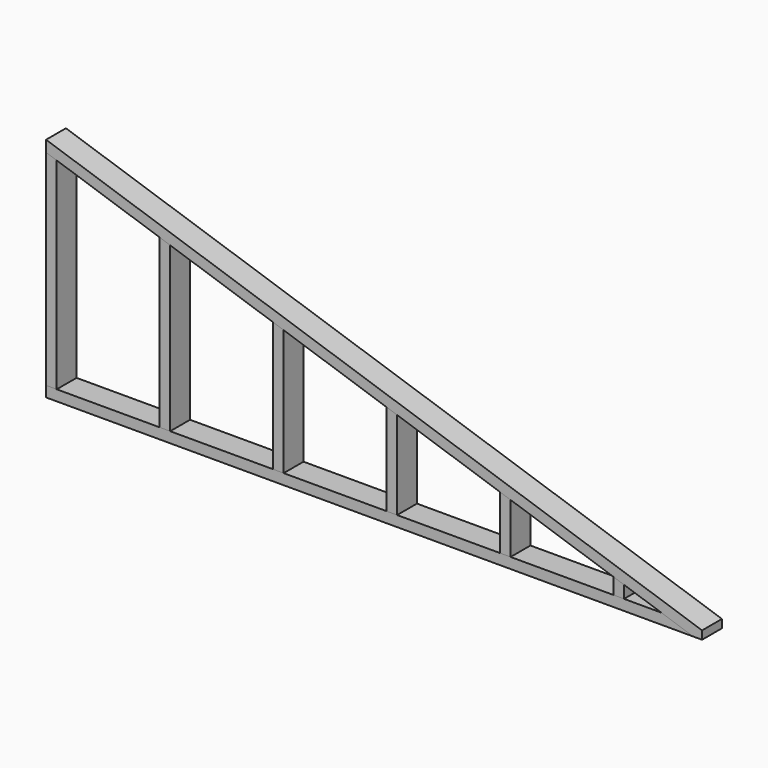
from build123d import *

# Parameters (mm, degrees)
F1_DEPTH = 88.9
F2_DEPTH = 88.9
F3_DEPTH = 88.9


with BuildPart() as f1:
    # F0 (on Front) → F1 (new body)
    with BuildSketch(Plane.XZ):
        Polygon((-1153.414262, 397.768276), (-1153.414262, -336.770798), (-1115.314262, -336.770798), (-1115.314262, 385.068276), align=None)
        Polygon((-747.014262, 262.301609), (-747.014262, -336.770798), (-708.914262, -336.770798), (-708.914262, 249.601609), align=None)
        Polygon((-340.614262, 126.834942), (-340.614262, -336.770798), (-302.514262, -336.770798), (-302.514262, 114.134942), align=None)
        Polygon((65.785738, -336.770798), (103.885738, -336.770798), (103.885738, -21.331724), (65.785738, -8.631724), align=None)
        Polygon((472.185738, -336.770798), (510.285738, -336.770798), (510.285738, -156.798391), (472.185738, -144.098391), align=None)
        Polygon((878.585738, -336.770798), (916.685738, -336.770798), (916.685738, -292.265058), (878.585738, -279.565058), align=None)
    extrude(amount=F1_DEPTH)


with BuildPart() as f2:
    # F0 (on Front) → F2 (new body)
    with BuildSketch(Plane.XZ):
        Polygon((1050.20296, -336.770798), (1164.50296, -374.870798), (1196.085738, -374.870798), (1196.085738, -345.237465), (-1153.414262, 437.929202), (-1153.414262, 397.768276), (-1115.314262, 385.068276), (-747.014262, 262.301609), (-708.914262, 249.601609), (-340.614262, 126.834942), (-302.514262, 114.134942), (65.785738, -8.631724), (103.885738, -21.331724), (472.185738, -144.098391), (510.285738, -156.798391), (878.585738, -279.565058), (916.685738, -292.265058), align=None)
    extrude(amount=F2_DEPTH)


with BuildPart() as f3:
    # F0 (on Front) → F3 (new body)
    with BuildSketch(Plane.XZ):
        Polygon((-1153.414262, -336.770798), (-1153.414262, -374.870798), (1164.50296, -374.870798), (1050.20296, -336.770798), (916.685738, -336.770798), (878.585738, -336.770798), (510.285738, -336.770798), (472.185738, -336.770798), (103.885738, -336.770798), (65.785738, -336.770798), (-302.514262, -336.770798), (-340.614262, -336.770798), (-708.914262, -336.770798), (-747.014262, -336.770798), (-1115.314262, -336.770798), align=None)
    extrude(amount=F3_DEPTH)


solid = Compound([f1.part, f2.part, f3.part])
